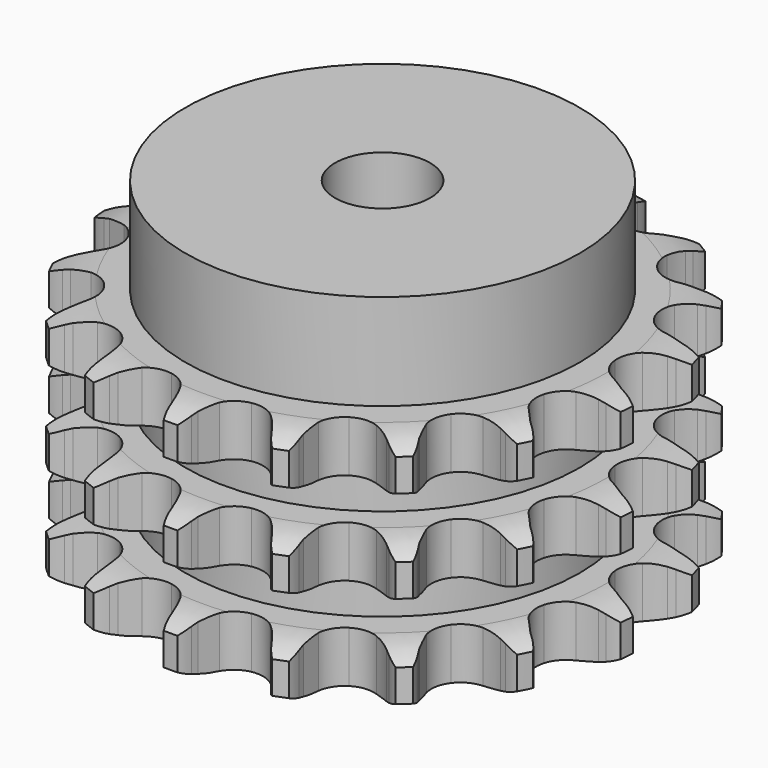
from build123d import *

# Parameters (mm, degrees)
PAD_DEPTH         = 49.8
SKETCH001_R       = 41.5
PAD001_DEPTH      = 70
SKETCH002_R       = 10
POCKET_DEPTH      = 0.001
POCKET_DEPTH_BACK = 70.001


with BuildPart() as part:
    # Sprocket → Pad (new body)
    with BuildSketch(Plane.XY):
        with BuildLine():
            ThreePointArc((-10.612195, 56.770229), (-8.766175, 54.981851), (-7.435293, 52.783024))
            Line((-7.435293, 52.783024), (-6.86271, 51.486248))
            ThreePointArc((-6.86271, 51.486248), (-5.929494, 49.693557), (-4.774522, 48.035041))
            ThreePointArc((-4.774522, 48.035041), (-2.650128, 46.338981), (0, 45.733596))
            ThreePointArc((0, 45.733596), (2.650128, 46.338981), (4.774522, 48.035041))
            ThreePointArc((4.774522, 48.035041), (5.929494, 49.693557), (6.86271, 51.486248))
            Line((6.86271, 51.486248), (7.435293, 52.783024))
            ThreePointArc((7.435293, 52.783024), (8.766175, 54.981851), (10.612195, 56.770229))
            ThreePointArc((10.612195, 56.770229), (11.68752, 54.435757), (12.134223, 51.904642))
            Line((12.134223, 51.904642), (12.199691, 50.488594))
            ThreePointArc((12.199691, 50.488594), (12.422294, 48.479842), (12.900149, 46.516098))
            ThreePointArc((12.900149, 46.516098), (14.2684, 44.16715), (16.52088, 42.645308))
            ThreePointArc((16.52088, 42.645308), (19.210741, 42.252477), (21.804367, 43.066586))
            Line((21.804367, 43.066586), (24.998265, 45.5304))
            ThreePointArc((24.998265, 45.5304), (25.488172, 46.042859), (26.000632, 46.532767))
            ThreePointArc((26.000632, 46.532767), (28.03595, 48.102341), (30.403349, 49.103095))
            ThreePointArc((30.403349, 49.103095), (30.562752, 46.537812), (30.064946, 44.01625))
            Line((30.064946, 44.01625), (29.614457, 42.672175))
            ThreePointArc((29.614457, 42.672175), (29.096384, 40.718656), (28.832584, 38.714898))
            ThreePointArc((28.832584, 38.714898), (29.259902, 36.0303), (30.810524, 33.797535))
            ThreePointArc((30.810524, 33.797535), (33.176838, 32.459541), (35.889412, 32.281749))
            Line((35.889412, 32.281749), (39.757665, 33.425418))
            ThreePointArc((39.757665, 33.425418), (40.399612, 33.726298), (41.054441, 33.998001))
            ThreePointArc((41.054441, 33.998001), (43.519315, 34.726344), (46.088363, 34.804316))
            ThreePointArc((46.088363, 34.804316), (45.310314, 32.354678), (43.93523, 30.18322))
            Line((43.93523, 30.18322), (43.029626, 29.092642))
            ThreePointArc((43.029626, 29.092642), (41.840845, 27.45819), (40.871018, 25.685037))
            ThreePointArc((40.871018, 25.685037), (40.299691, 23.027358), (40.939036, 20.385218))
            ThreePointArc((40.939036, 20.385218), (42.662219, 18.282764), (45.127393, 17.137084))
            Line((45.127393, 17.137084), (49.147573, 16.806149))
            ThreePointArc((49.147573, 16.806149), (49.85486, 16.854813), (50.563621, 16.871617))
            ThreePointArc((50.563621, 16.871617), (53.125155, 16.660362), (55.548888, 15.805021))
            ThreePointArc((55.548888, 15.805021), (53.938467, 13.801865), (51.871819, 12.273778))
            Line((51.871819, 12.273778), (50.633406, 11.583987))
            ThreePointArc((50.633406, 11.583987), (48.934468, 10.489343), (47.389595, 9.186269))
            ThreePointArc((47.389595, 9.186269), (45.896784, 6.914445), (45.538504, 4.219764))
            ThreePointArc((45.538504, 4.219764), (46.38583, 1.636799), (48.27067, -0.32204))
            Line((48.27067, -0.32204), (51.899828, -2.082884))
            ThreePointArc((51.899828, -2.082884), (52.576933, -2.293008), (53.243903, -2.533372))
            ThreePointArc((53.243903, -2.533372), (55.556149, -3.655695), (57.507227, -5.328829))
            ThreePointArc((57.507227, -5.328829), (55.281932, -6.614966), (52.802831, -7.293305))
            Line((52.802831, -7.293305), (51.398864, -7.48915))
            ThreePointArc((51.398864, -7.48915), (49.41922, -7.896148), (47.507944, -8.553155))
            ThreePointArc((47.507944, -8.553155), (45.295262, -10.132303), (43.987745, -12.515593))
            ThreePointArc((43.987745, -12.515593), (43.844779, -15.230225), (44.894725, -17.737671))
            Line((44.894725, -17.737671), (47.642724, -20.690612))
            ThreePointArc((47.642724, -20.690612), (48.1982, -21.131145), (48.733302, -21.596216))
            ThreePointArc((48.733302, -21.596216), (50.483976, -23.47803), (51.698897, -25.742992))
            ThreePointArc((51.698897, -25.742992), (49.159265, -26.138409), (46.602528, -25.875387))
            Line((46.602528, -25.875387), (45.22262, -25.550835))
            ThreePointArc((45.22262, -25.550835), (43.229633, -25.21522), (41.210083, -25.137429))
            ThreePointArc((41.210083, -25.137429), (38.576364, -25.810627), (36.496197, -27.560649))
            ThreePointArc((36.496197, -27.560649), (35.382247, -30.040323), (35.455498, -32.75773))
            Line((35.455498, -32.75773), (36.951206, -36.503958))
            ThreePointArc((36.951206, -36.503958), (37.310033, -37.115404), (37.640998, -37.74237))
            ThreePointArc((37.640998, -37.74237), (38.593663, -40.129527), (38.908345, -42.680421))
            ThreePointArc((38.908345, -42.680421), (36.397367, -42.131715), (34.108295, -40.962854))
            Line((34.108295, -40.962854), (32.938811, -40.161739))
            ThreePointArc((32.938811, -40.161739), (31.201644, -39.128837), (29.346571, -38.326753))
            ThreePointArc((29.346571, -38.326753), (26.647514, -38.003083), (24.075636, -38.883487))
            ThreePointArc((24.075636, -38.883487), (22.141146, -40.793308), (21.22781, -43.353677))
            Line((21.22781, -43.353677), (21.269223, -47.387242))
            ThreePointArc((21.269223, -47.387242), (21.38294, -48.087022), (21.465068, -48.791209))
            ThreePointArc((21.465068, -48.791209), (21.491062, -51.361308), (20.863005, -53.853623))
            ThreePointArc((20.863005, -53.853623), (18.719803, -52.4349), (17.007548, -50.518061))
            Line((17.007548, -50.518061), (16.206433, -49.348577))
            ThreePointArc((16.206433, -49.348577), (14.9597, -47.757888), (13.519642, -46.339837))
            ThreePointArc((13.519642, -46.339837), (11.11977, -45.063012), (8.403526, -44.954894))
            ThreePointArc((8.403526, -44.954894), (5.909761, -46.036932), (4.133189, -48.09447))
            Line((4.133189, -48.09447), (2.714714, -51.870617))
            ThreePointArc((2.714714, -51.870617), (2.567961, -52.564222), (2.390162, -53.250524))
            ThreePointArc((2.390162, -53.250524), (1.485974, -55.656461), (0, -57.753594))
            ThreePointArc((0, -57.753594), (-1.485974, -55.656461), (-2.390162, -53.250524))
            Line((-2.390162, -53.250524), (-2.714714, -51.870617))
            ThreePointArc((-2.714714, -51.870617), (-3.302634, -49.936971), (-4.133189, -48.09447))
            ThreePointArc((-4.133189, -48.09447), (-5.909761, -46.036932), (-8.403526, -44.954894))
            ThreePointArc((-8.403526, -44.954894), (-11.11977, -45.063012), (-13.519642, -46.339837))
            Line((-13.519642, -46.339837), (-16.206433, -49.348577))
            ThreePointArc((-16.206433, -49.348577), (-16.593834, -49.942332), (-17.007548, -50.518061))
            ThreePointArc((-17.007548, -50.518061), (-18.719803, -52.4349), (-20.863005, -53.853623))
            ThreePointArc((-20.863005, -53.853623), (-21.491062, -51.361308), (-21.465068, -48.791209))
            Line((-21.465068, -48.791209), (-21.269223, -47.387242))
            ThreePointArc((-21.269223, -47.387242), (-21.118929, -45.37179), (-21.22781, -43.353677))
            ThreePointArc((-21.22781, -43.353677), (-22.141146, -40.793308), (-24.075636, -38.883487))
            ThreePointArc((-24.075636, -38.883487), (-26.647514, -38.003083), (-29.346571, -38.326753))
            Line((-29.346571, -38.326753), (-32.938811, -40.161739))
            ThreePointArc((-32.938811, -40.161739), (-33.514541, -40.575453), (-34.108295, -40.962854))
            ThreePointArc((-34.108295, -40.962854), (-36.397367, -42.131715), (-38.908345, -42.680421))
            ThreePointArc((-38.908345, -42.680421), (-38.593663, -40.129527), (-37.640998, -37.74237))
            Line((-37.640998, -37.74237), (-36.951206, -36.503958))
            ThreePointArc((-36.951206, -36.503958), (-36.082996, -34.678897), (-35.455498, -32.75773))
            ThreePointArc((-35.455498, -32.75773), (-35.382247, -30.040323), (-36.496197, -27.560649))
            ThreePointArc((-36.496197, -27.560649), (-38.576364, -25.810627), (-41.210083, -25.137429))
            Line((-41.210083, -25.137429), (-45.22262, -25.550835))
            ThreePointArc((-45.22262, -25.550835), (-45.908923, -25.728634), (-46.602528, -25.875387))
            ThreePointArc((-46.602528, -25.875387), (-49.159265, -26.138409), (-51.698897, -25.742992))
            ThreePointArc((-51.698897, -25.742992), (-50.483976, -23.47803), (-48.733302, -21.596216))
            Line((-48.733302, -21.596216), (-47.642724, -20.690612))
            ThreePointArc((-47.642724, -20.690612), (-46.173854, -19.302427), (-44.894725, -17.737671))
            ThreePointArc((-44.894725, -17.737671), (-43.844779, -15.230225), (-43.987745, -12.515593))
            ThreePointArc((-43.987745, -12.515593), (-45.295262, -10.132303), (-47.507944, -8.553155))
            Line((-47.507944, -8.553155), (-51.398864, -7.48915))
            ThreePointArc((-51.398864, -7.48915), (-52.10305, -7.407021), (-52.802831, -7.293305))
            ThreePointArc((-52.802831, -7.293305), (-55.281932, -6.614966), (-57.507227, -5.328829))
            ThreePointArc((-57.507227, -5.328829), (-55.556149, -3.655695), (-53.243903, -2.533372))
            Line((-53.243903, -2.533372), (-51.899828, -2.082884))
            ThreePointArc((-51.899828, -2.082884), (-50.028678, -1.319057), (-48.27067, -0.32204))
            ThreePointArc((-48.27067, -0.32204), (-46.38583, 1.636799), (-45.538504, 4.219764))
            ThreePointArc((-45.538504, 4.219764), (-45.896784, 6.914445), (-47.389595, 9.186269))
            Line((-47.389595, 9.186269), (-50.633406, 11.583987))
            ThreePointArc((-50.633406, 11.583987), (-51.260372, 11.914951), (-51.871819, 12.273778))
            ThreePointArc((-51.871819, 12.273778), (-53.938467, 13.801865), (-55.548888, 15.805021))
            ThreePointArc((-55.548888, 15.805021), (-53.125155, 16.660362), (-50.563621, 16.871617))
            Line((-50.563621, 16.871617), (-49.147573, 16.806149))
            ThreePointArc((-49.147573, 16.806149), (-47.126851, 16.842459), (-45.127393, 17.137084))
            ThreePointArc((-45.127393, 17.137084), (-42.662219, 18.282764), (-40.939036, 20.385218))
            ThreePointArc((-40.939036, 20.385218), (-40.299691, 23.027358), (-40.871018, 25.685037))
            Line((-40.871018, 25.685037), (-43.029626, 29.092642))
            ThreePointArc((-43.029626, 29.092642), (-43.494697, 29.627743), (-43.93523, 30.18322))
            ThreePointArc((-43.93523, 30.18322), (-45.310314, 32.354678), (-46.088363, 34.804316))
            ThreePointArc((-46.088363, 34.804316), (-43.519315, 34.726344), (-41.054441, 33.998001))
            Line((-41.054441, 33.998001), (-39.757665, 33.425418))
            ThreePointArc((-39.757665, 33.425418), (-37.860282, 32.729307), (-35.889412, 32.281749))
            ThreePointArc((-35.889412, 32.281749), (-33.176838, 32.459541), (-30.810524, 33.797535))
            ThreePointArc((-30.810524, 33.797535), (-29.259902, 36.0303), (-28.832584, 38.714898))
            Line((-28.832584, 38.714898), (-29.614457, 42.672175))
            ThreePointArc((-29.614457, 42.672175), (-29.854822, 43.339145), (-30.064946, 44.01625))
            ThreePointArc((-30.064946, 44.01625), (-30.562752, 46.537812), (-30.403349, 49.103095))
            ThreePointArc((-30.403349, 49.103095), (-28.03595, 48.102341), (-26.000632, 46.532767))
            Line((-26.000632, 46.532767), (-24.998265, 45.5304))
            ThreePointArc((-24.998265, 45.5304), (-23.480472, 44.195881), (-21.804367, 43.066586))
            ThreePointArc((-21.804367, 43.066586), (-19.210741, 42.252477), (-16.52088, 42.645308))
            ThreePointArc((-16.52088, 42.645308), (-14.2684, 44.16715), (-12.900149, 46.516098))
            Line((-12.900149, 46.516098), (-12.199691, 50.488594))
            ThreePointArc((-12.199691, 50.488594), (-12.182887, 51.197354), (-12.134223, 51.904642))
            ThreePointArc((-12.134223, 51.904642), (-11.68752, 54.435757), (-10.612195, 56.770229))
        make_face()
    extrude(amount=PAD_DEPTH)

    # Sketch → Groove (revolve, cut)
    with BuildSketch(Plane.XZ):
        with BuildLine():
            ThreePointArc((47.264719, 0), (51.623618, 0.506758), (55.75, 2))
            Line((55.75, 2), (55.75, 8.8))
            ThreePointArc((55.75, 8.8), (51.623618, 10.293242), (47.264719, 10.8))
            Line((41.5, 10.8), (47.264719, 10.8))
            Line((41.5, 10.8), (41.5, 19.5))
            Line((41.5, 19.5), (47.264719, 19.5))
            ThreePointArc((47.264719, 19.5), (51.623618, 20.006758), (55.75, 21.5))
            Line((55.75, 28.3), (55.75, 21.5))
            ThreePointArc((55.75, 28.3), (51.623618, 29.793242), (47.264719, 30.3))
            Line((41.5, 30.3), (47.264719, 30.3))
            Line((41.5, 39), (41.5, 30.3))
            Line((47.264719, 39), (41.5, 39))
            ThreePointArc((47.264719, 39), (51.623618, 39.506758), (55.75, 41))
            Line((55.75, 41), (55.75, 47.8))
            ThreePointArc((55.75, 47.8), (51.623618, 49.293242), (47.264719, 49.8))
            Line((47.264719, 49.8), (65.75, 49.8))
            Line((65.75, 49.8), (65.75, 0))
            Line((47.264719, 0), (65.75, 0))
        make_face()
    revolve(axis=Axis((0, 0, 0), (0, 0, 1)), mode=Mode.SUBTRACT)

    # Sketch001 → Pad001 (join)
    with BuildSketch(Plane.XY):
        Circle(SKETCH001_R)
    extrude(amount=PAD001_DEPTH)

    # Sketch002 → Pocket (cut, two sides)
    with BuildSketch(Plane.XY) as pocket_sk:
        Circle(SKETCH002_R)
    extrude(amount=-POCKET_DEPTH, mode=Mode.SUBTRACT)
    extrude(pocket_sk.sketch, amount=POCKET_DEPTH_BACK, mode=Mode.SUBTRACT)


solid = part.part
